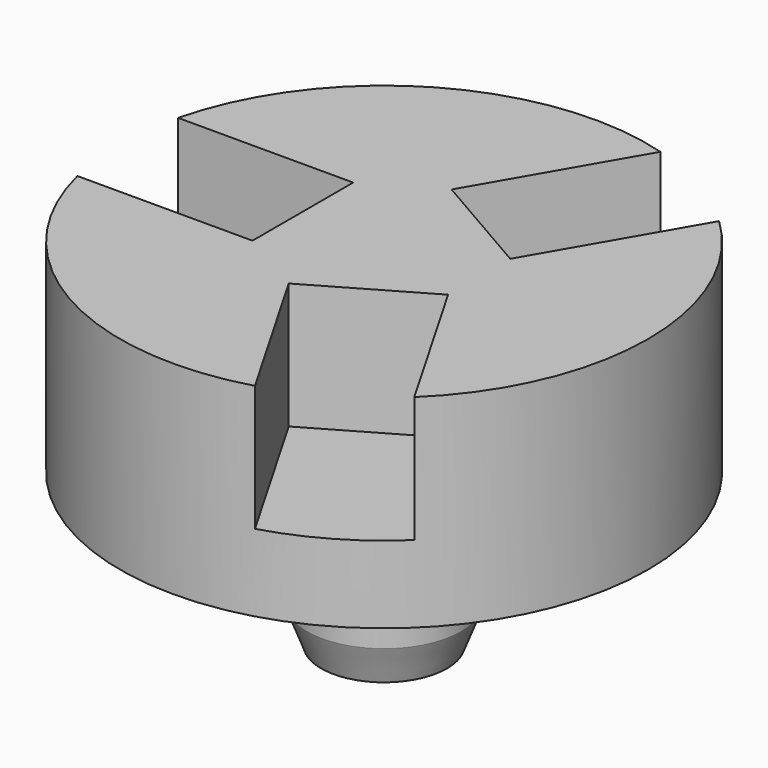
from build123d import *

# Parameters (mm, degrees)
F3_DEPTH = 6.2
F4_COUNT = 3


with BuildPart() as f1:
    # F0 (on Front) → F1 (revolve)
    with BuildSketch(Plane.XZ):
        Polygon((0, 17.5), (0, 0), (3.1, 0), (3.8, 1.827984), (3.8, 6), (5.812653, 6), (5.812653, 7.5), (13, 7.5), (13, 17.5), align=None)
    revolve(axis=Axis((0, 0, 8.75), (0, 0, -1)))


with BuildPart() as f3:
    # F2 (on face) → F3 (new body)
    with BuildSketch(Plane.XY.offset(17.5)):
        with BuildLine():
            Line((-4, -3.1), (-4, 3.1))
            Line((-4, 3.1), (-12.624975, 3.1))
            ThreePointArc((-12.624975, 3.1), (-13, 0), (-12.624975, -3.1))
            Line((-12.624975, -3.1), (-4, -3.1))
        make_face()
    extrude(amount=-F3_DEPTH)


with BuildPart() as f4_1:
    # F4: instance of F3
    add(f3.part.rotate(Axis((0, 0, 17.5), (0, 0, -1)), 1 * 360 / F4_COUNT))


with BuildPart() as f4_2:
    # F4: instance of F3
    add(f3.part.rotate(Axis((0, 0, 17.5), (0, 0, -1)), 2 * 360 / F4_COUNT))


with BuildPart() as f1_1:
    add(f1.part)

    # F5: cut F3, F4_1, F4_2
    add(f3.part, mode=Mode.SUBTRACT)
    add(f4_1.part, mode=Mode.SUBTRACT)
    add(f4_2.part, mode=Mode.SUBTRACT)


solid = f1_1.part
